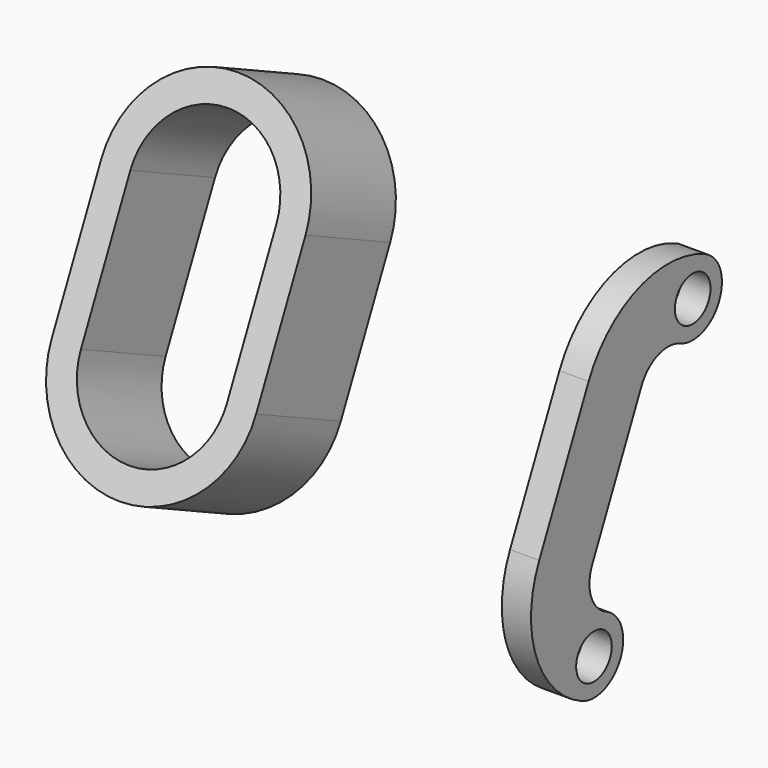
from build123d import *

# Parameters (mm, degrees)
F0_R     = 1.525
F1_DEPTH = 2
F4_DEPTH = 8


with BuildPart() as f1:
    # F0 (on Right) → F1 (new body)
    with BuildSketch(Plane.YZ):
        with BuildLine():
            ThreePointArc((-1.0565456544, -2.2657694676), (1.3432490209, -2.1084786145), (2.5, 0))
            ThreePointArc((2.5, 0), (2.1084786145, 1.3432490209), (1.0565456544, 2.2657694676))
            ThreePointArc((1.0565456544, 2.2657694676), (-2.2657694676, 1.0565456544), (-1.0565456544, -2.2657694676))
        make_face()
        Circle(F0_R, mode=Mode.SUBTRACT)
        with BuildLine():
            ThreePointArc((-1.0565456544, -2.2657694676), (-2.2657694676, 1.0565456544), (1.0565456544, 2.2657694676))
            ThreePointArc((1.0565456544, 2.2657694676), (-0.2361402433, 3.6764885769), (-0.1526781589, 5.5880845895))
            Line((-0.1526781589, 5.5880845895), (4.0735044585, 14.6511624599))
            ThreePointArc((4.0735044585, 14.6511624599), (5.4842235678, 15.9438483575), (7.3958195805, 15.8603862731))
            ThreePointArc((7.3958195805, 15.8603862731), (6.1865957672, 19.1827013951), (9.5089108892, 20.3919252083))
            ThreePointArc((9.5089108892, 20.3919252083), (3.7741228512, 20.6423114614), (-0.4580344767, 16.7642537686))
            Line((-0.4580344767, 16.7642537686), (-4.6842170941, 7.7011758982))
            ThreePointArc((-4.6842170941, 7.7011758982), (-4.9346033472, 1.9663878602), (-1.0565456544, -2.2657694676))
        make_face()
        with BuildLine():
            ThreePointArc((9.5089108892, 20.3919252083), (6.1865957672, 19.1827013951), (7.3958195805, 15.8603862731))
            ThreePointArc((7.3958195805, 15.8603862731), (9.7956142557, 16.0176771262), (10.9523652348, 18.1261557407))
            ThreePointArc((10.9523652348, 18.1261557407), (10.5608438493, 19.4694047616), (9.5089108892, 20.3919252083))
        make_face()
        with Locations((8.4523652348, 18.1261557407)):
            Circle(F0_R, mode=Mode.SUBTRACT)
    extrude(amount=F1_DEPTH)


with BuildPart() as f4:
    # F3 (on offset) → F4 (new body)
    with BuildSketch(Plane(origin=(0, -20.3919252083, 9.5089108892), x_dir=(1, 0, 0), z_dir=(0, -0.906307787, 0.4226182617))):
        with BuildLine():
            ThreePointArc((-8, 19.4092413783), (-15, 26.4092413783), (-22, 19.4092413783))
            Line((-22, 19.4092413783), (-22, 9.4092413783))
            ThreePointArc((-22, 9.4092413783), (-15, 2.4092413783), (-8, 9.4092413783))
            Line((-8, 9.4092413783), (-8, 19.4092413783))
        make_face()
        with BuildLine():
            Line((-10, 19.4092413783), (-10, 9.4092413783))
            ThreePointArc((-10, 9.4092413783), (-15, 4.4092413783), (-20, 9.4092413783))
            Line((-20, 9.4092413783), (-20, 19.4092413783))
            ThreePointArc((-20, 19.4092413783), (-15, 24.4092413783), (-10, 19.4092413783))
        make_face(mode=Mode.SUBTRACT)
    extrude(amount=-F4_DEPTH)


solid = Compound([f1.part, f4.part])
